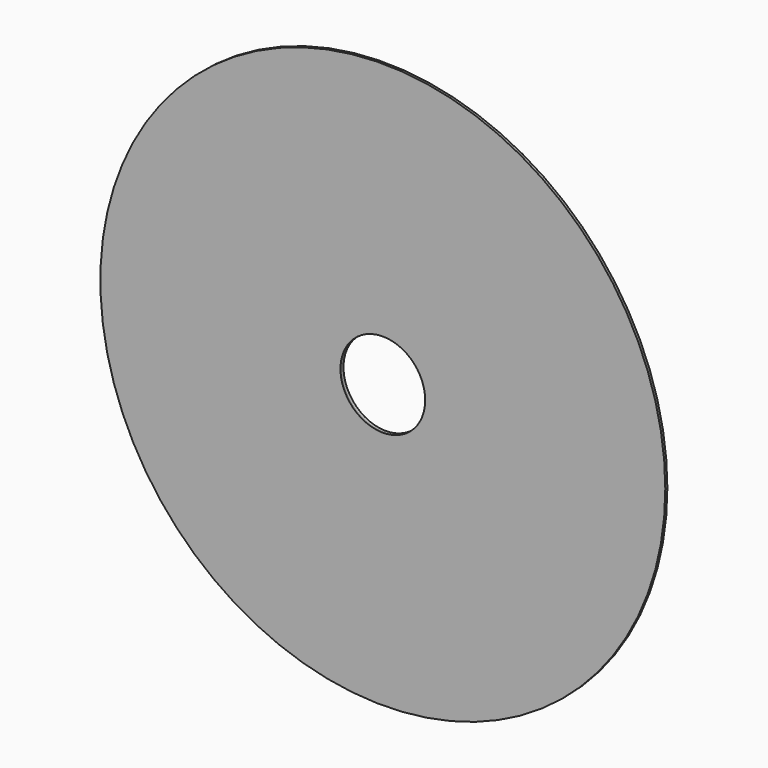
from build123d import *

# Parameters (mm, degrees)
F0_R         = 60
F0_R_2       = 9
F1_DEPTH     = 0.15
F2_R         = 59
F1_FACE1_R   = 60
F1_FACE1_R_2 = 9
F3_DEPTH     = 0.25
F4_DEPTH     = 0.501


with BuildPart() as f1:
    # F0 (on Front) → F1 (new body, symmetric)
    with BuildSketch(Plane.XZ):
        Circle(F0_R)
        Circle(F0_R_2, mode=Mode.SUBTRACT)
    extrude(amount=F1_DEPTH, both=True)

    # F2 (on face) + F1_face1 (on face) → F3 (join, symmetric)
    with BuildSketch(Plane(origin=(0, 0.15, 0), x_dir=(-1, 0, 0), z_dir=(0, 1, 0))):
        Circle(F2_R)
    with BuildSketch(Plane.XZ.offset(0.15)):
        Circle(F1_FACE1_R)
        Circle(F1_FACE1_R_2, mode=Mode.SUBTRACT)
    extrude(amount=F3_DEPTH, both=True, dir=(0, 1, 0))

    # F4 (cut, through all): a face of the model
    f4_faces = [f1.faces().sort_by_distance(p)[0] for p in [
        (0, -0.1, 0),
    ]]
    extrude(f4_faces, amount=-F4_DEPTH, mode=Mode.SUBTRACT)


solid = f1.part
